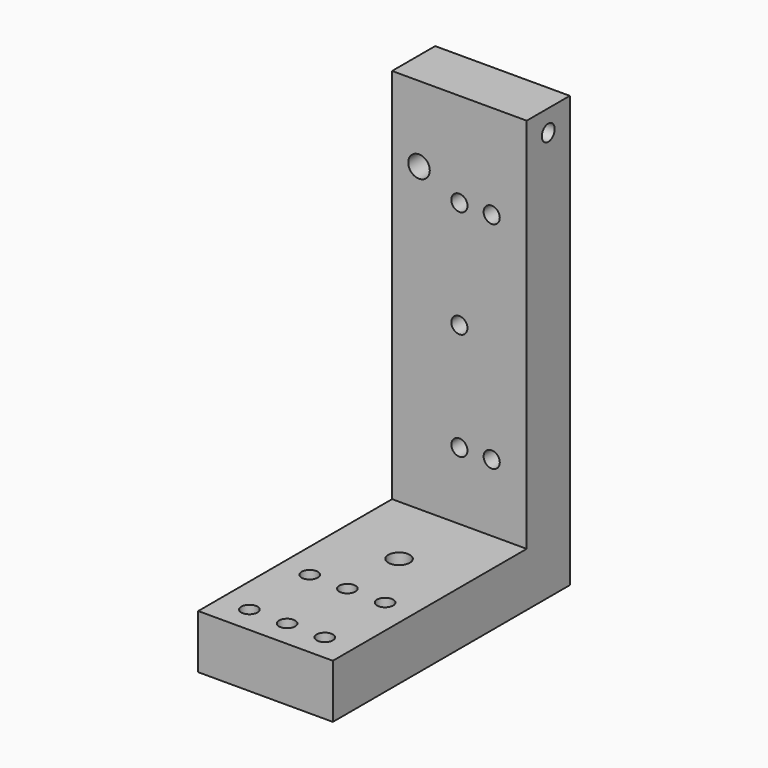
from build123d import *

# Parameters (mm, degrees)
F0_W      = 25
F0_H      = 80
F1_DEPTH  = 10
F2_W      = 25
F2_H      = 10
F3_DEPTH  = 45
F4_R      = 2
F4_R_2    = 1.5
F5_DEPTH  = 10.001
F6_R      = 1.5
F7_DEPTH  = 6
F8_R      = 1.5
F8_R_2    = 2
F9_DEPTH  = 10.001
F10_R     = 2
F11_DEPTH = 10


with BuildPart() as f1:
    # F0 (on Front) → F1 (new body)
    with BuildSketch(Plane.XZ):
        Rectangle(F0_W, F0_H)
    extrude(amount=F1_DEPTH)

    # F2 (on face) → F3 (join)
    with BuildSketch(Plane.XZ.offset(10)):
        with Locations((0, -35)):
            Rectangle(F2_W, F2_H)
    extrude(amount=F3_DEPTH)

    # F4 (on face) → F5 (cut, through all)
    with BuildSketch(Plane.XZ.offset(10)):
        with Locations((-7.5, 26)):
            Circle(F4_R)
        with Locations((0, -17.5)):
            Circle(F4_R_2)
        with Locations((0, 2.5)):
            Circle(F4_R_2)
        with Locations((0, 22.5)):
            Circle(F4_R_2)
        with Locations((6, 22.5)):
            Circle(F4_R_2)
        with Locations((6, -17.5)):
            Circle(F4_R_2)
    extrude(amount=-F5_DEPTH, mode=Mode.SUBTRACT)

    # F6 (on face) → F7 (cut)
    with BuildSketch(Plane.YZ.offset(12.5)):
        with Locations((-5, 36)):
            Circle(F6_R)
    extrude(amount=-F7_DEPTH, mode=Mode.SUBTRACT)

    # F8 (on face) → F9 (cut, through all)
    with BuildSketch(Plane.XY.offset(-30)):
        with Locations((0, -36)):
            Circle(F8_R)
        with Locations((0, -24)):
            Circle(F8_R_2)
        with Locations((-7, -36)):
            Circle(F8_R)
        with Locations((7, -36)):
            Circle(F8_R)
        with Locations((0, -50)):
            Circle(F8_R)
        with Locations((-7, -50)):
            Circle(F8_R)
        with Locations((7, -50)):
            Circle(F8_R)
    extrude(amount=-F9_DEPTH, mode=Mode.SUBTRACT)

    # F10 (on face) → F11 (cut)
    with BuildSketch(Plane(origin=(-12.5, 0, 0), x_dir=(0, -1, 0), z_dir=(-1, 0, 0))):
        with Locations((5, -35)):
            Circle(F10_R)
        with Locations((15, -35)):
            Circle(F10_R)
    extrude(amount=-F11_DEPTH, mode=Mode.SUBTRACT)


solid = f1.part
